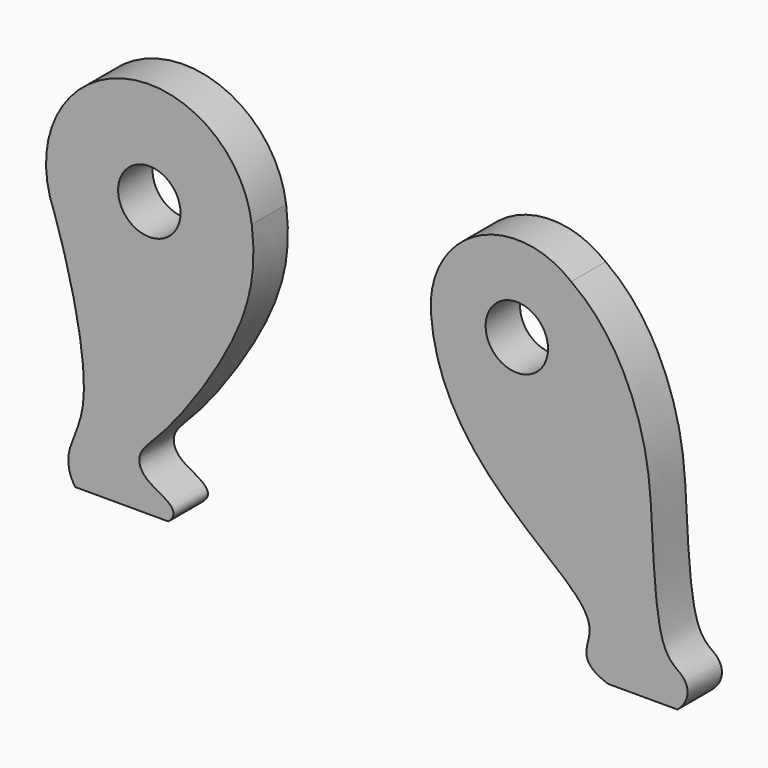
from build123d import *

# Parameters (mm, degrees)
F0_R     = 1.905
F1_DEPTH = 3.175
F2_SCALE = 0.8
F3_R     = 1.8415
F4_DEPTH = 2.5410001


with BuildPart() as f1:
    # F0 (on Front) → F1 (new body)
    with BuildSketch(Plane.XZ):
        with BuildLine():
            add(Edge.make_bspline(
                [(15.2766938218, 9.1789322707), (18.151094091, 7.1668521774), (20.9269990257, 1.23542886), (21.2277681546, -4.6540606662), (21.5838634633, -11.5705662324), (22.7053267286, -13.3069617185), (23.8727598783, -13.8782113098), (24.046701891, -15.238019906), (23.1143286587, -16.0615529811)],
                knots=[0, 0, 0, 0, 0.2560749835, 0.4646988923, 0.6791340304, 0.7917259994, 0.8783836268, 1, 1, 1, 1], degree=3))
            ThreePointArc((15.2766938218, 9.1789322707), (8.3501666844, 9.9010575477), (4.9268378045, 3.8364831619))
            add(Edge.make_bspline(
                [(4.9268378045, 3.8364831619), (5.346975618, -2.5843795785), (12.736862968, -8.5722075624), (17.843095969, -12.7321101967), (15.6024638024, -15.2424295391), (18.0134600164, -16.0615529811)],
                knots=[0, 0, 0, 0, 0.4888413716, 0.774721298, 1, 1, 1, 1], degree=3))
            Line((18.0134600164, -16.0615529811), (23.1143286587, -16.0615529811))
        make_face()
        with Locations((11.2628023327, 4.2584470189)):
            Circle(F0_R, mode=Mode.SUBTRACT)
    extrude(amount=F1_DEPTH)


with BuildPart() as f1b:
    # F0 (on Front) → F1, piece 2 (new body)
    with BuildSketch(Plane.XZ):
        with BuildLine():
            add(Edge.make_bspline(
                [(-8.2936335114, 5.2368499319), (-7.9824457686, 2.8333179563), (-8.4967454129, -1.9046579068), (-14.5115015192, -10.424185367), (-16.8502036964, -12.2101148814), (-16.3736586102, -14.1539483863), (-13.3133264784, -15.0594276561), (-14.4444399621, -16.0615529811)],
                knots=[0, 0, 0, 0, 0.2590953594, 0.5668054584, 0.72169025, 0.8465686818, 1, 1, 1, 1], degree=3))
            ThreePointArc((-8.2936335114, 5.2368499319), (-17.8371497576, 11.6149311281), (-22.8727331196, 1.2998197719))
            add(Edge.make_bspline(
                [(-22.8727331196, 1.2998197719), (-21.6541715744, -2.3029959403), (-19.6709242531, -10.4033567029), (-22.1587598592, -13.742231951), (-21.7158737806, -15.5478463297), (-21.2994578776, -16.0615529811)],
                knots=[0, 0, 0, 0, 0.505500983, 0.788586882, 1, 1, 1, 1], degree=3))
            Line((-21.2994578776, -16.0615529811), (-14.4444399621, -16.0615529811))
        make_face()
        with Locations((-15.8505593242, 4.2584470189)):
            Circle(F0_R, mode=Mode.SUBTRACT)
    extrude(amount=F1_DEPTH)


with BuildPart() as f1_1:
    # F2: moved
    add(f1.part.scale(F2_SCALE))


with BuildPart() as f1b_1:
    # F2: moved
    add(f1b.part.scale(F2_SCALE))


with BuildPart() as f4_tool:
    # F3 (on face) → F4 (new body, through all)
    with BuildSketch(Plane.XZ.offset(2.54)):
        with Locations((-12.6804474594, 3.4067576151)):
            Circle(F3_R)
        with Locations((9.0102418662, 3.4067576151)):
            Circle(F3_R)
    extrude(amount=-F4_DEPTH)


with BuildPart() as f1_2:
    add(f1_1.part)

    # F4: cut by f4_tool
    add(f4_tool.part, mode=Mode.SUBTRACT)


with BuildPart() as f1b_2:
    add(f1b_1.part)

    # F4: cut by f4_tool
    add(f4_tool.part, mode=Mode.SUBTRACT)


solid = Compound([f1_2.part, f1b_2.part])
